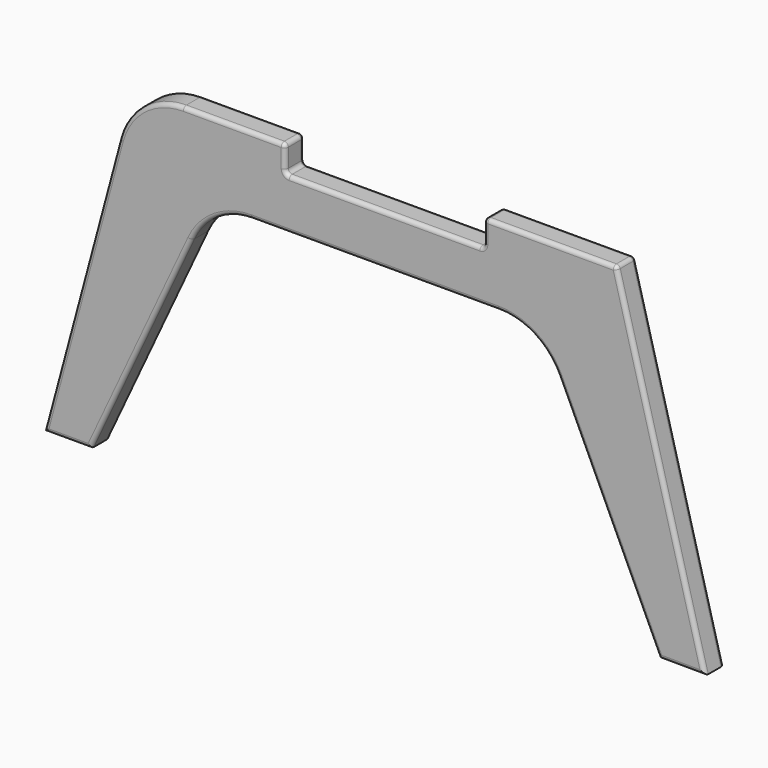
from build123d import *

# Parameters (mm, degrees)
F1_DEPTH = 18
F2_R     = 3


with BuildPart() as f1:
    # F0 (on Front) → F1 (new body)
    with BuildSketch(Plane.XZ):
        with BuildLine():
            Line((57.0573561923, 212.9409522551), (0, 0))
            Line((0, 0), (35.456227742, 0))
            Line((35.456227742, 0), (111.5254217963, 163.130913087))
            ThreePointArc((111.5254217963, 163.130913087), (129.9758307308, 184.1695722906), (156.8408111482, 192))
            Line((156.8408111482, 192), (250, 192))
            Line((250, 192), (343.1591888518, 192))
            ThreePointArc((343.1591888518, 192), (370.0241692692, 184.1695722906), (388.4745782037, 163.130913087))
            Line((388.4745782037, 163.130913087), (464.543772258, 0))
            Line((464.543772258, 0), (499.2772410304, -0.1947824512))
            Line((499.2772410304, -0.1947824512), (432.8335476371, 247.7764571353))
            ThreePointArc((432.8335476371, 247.7764571353), (431.7620544452, 249.3800600209), (429.9357701582, 250))
            Line((429.9357701582, 250), (335.2377511221, 250))
            ThreePointArc((335.2377511221, 250), (333.1164307786, 249.1213203436), (332.2377511221, 247))
            Line((332.2377511221, 247), (332.2377511221, 233))
            ThreePointArc((332.2377511221, 233), (331.3590714657, 230.8786796564), (329.2377511221, 230))
            Line((329.2377511221, 230), (188.7601000309, 230))
            Line((188.7601000309, 230), (182.2377511221, 230))
            Line((182.2377511221, 230), (182.2377511221, 232.7267350544))
            Line((182.2377511221, 232.7267350544), (182.2377511221, 242.7267350544))
            Line((182.2377511221, 242.7267350544), (182.2377511221, 247))
            ThreePointArc((182.2377511221, 247), (181.3590714657, 249.1213203436), (179.2377511221, 250))
            Line((179.2377511221, 250), (178.7601000309, 250))
            Line((178.7601000309, 250), (105.3536475067, 250))
            ThreePointArc((105.3536475067, 250), (74.9155760563, 239.6676670146), (57.0573561923, 212.9409522551))
        make_face()
    extrude(amount=F1_DEPTH)

    # F2
    f2_edges = [f1.edges().sort_by_distance(p)[0] for p in [
        (28.528678, -18, 106.470476),
        (17.728114, -18, 0),
        (73.490825, -18, 81.565457),
        (129.975831, -18, 184.169572),
        (250, -18, 192),
        (370.024169, -18, 184.169572),
        (426.509175, -18, 81.565457),
        (481.910507, -18, -0.097391),
        (466.055394, -18, 123.790837),
        (431.762054, -18, 249.38006),
        (382.586761, -18, 250),
        (333.116431, -18, 249.12132),
        (332.237751, -18, 240),
        (331.359071, -18, 230.87868),
        (255.737751, -18, 230),
        (182.237751, -18, 238.5),
        (181.359071, -18, 249.12132),
        (142.295699, -18, 250),
        (74.915576, -18, 239.667667),
        (28.528678, 0, 106.470476),
        (17.728114, 0, 0),
        (73.490825, 0, 81.565457),
        (129.975831, 0, 184.169572),
        (250, 0, 192),
        (370.024169, 0, 184.169572),
        (426.509175, 0, 81.565457),
        (481.910507, 0, -0.097391),
        (466.055394, 0, 123.790837),
        (431.762054, 0, 249.38006),
        (382.586761, 0, 250),
        (333.116431, 0, 249.12132),
        (332.237751, 0, 240),
        (331.359071, 0, 230.87868),
        (255.737751, 0, 230),
        (182.237751, 0, 238.5),
        (181.359071, 0, 249.12132),
        (142.295699, 0, 250),
        (74.915576, 0, 239.667667),
        (182.237751, -9, 230),
    ]]
    fillet(f2_edges, radius=F2_R)


solid = f1.part
